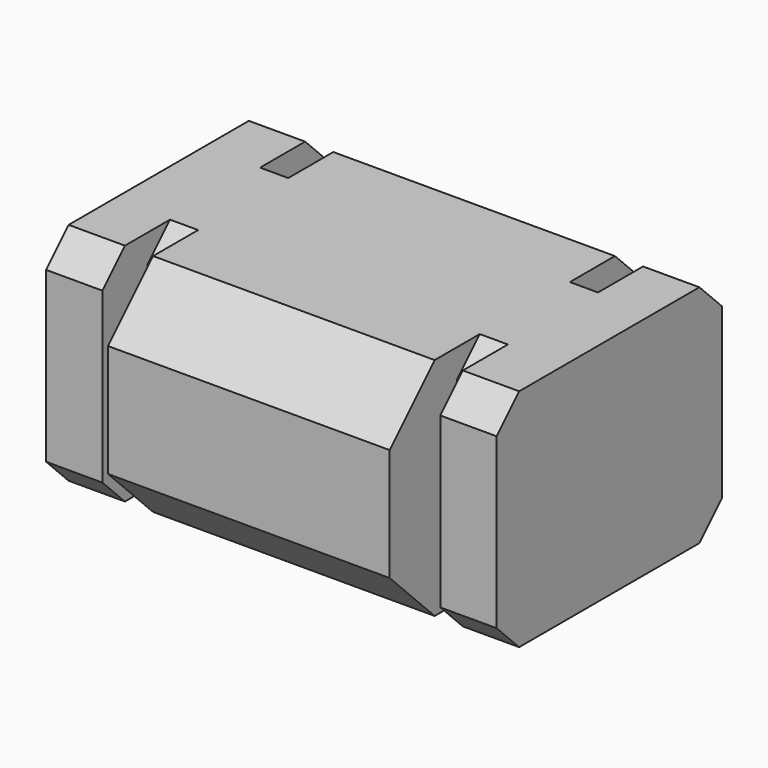
from build123d import *

# Parameters (mm, degrees)
F1_DEPTH = 8
F2_SIZE  = 1
F3_SIZE  = 2


with BuildPart() as f1:
    # F0 (on Top) → F1 (new body)
    with BuildSketch(Plane.XY):
        Polygon((5, 6), (0, 6), (-5, 6), (-5, 3), (-6, 3), (-6, 5), (-8, 5), (-8, -5), (-6, -5), (-6, -3), (-5, -3), (-5, -6), (0, -6), (5, -6), (5, -3), (6, -3), (6, -5), (8, -5), (8, 5), (6, 5), (6, 3), (5, 3), align=None)
    extrude(amount=F1_DEPTH)

    # F2
    f2_edges = [f1.edges().sort_by_distance(p)[0] for p in [
        (-7, -5, 0),
        (-7, 5, 0),
        (7, -5, 0),
        (7, 5, 0),
        (-7, -5, 8),
        (-7, 5, 8),
        (7, -5, 8),
        (7, 5, 8),
        (5.5, -3, 8),
        (5.5, 3, 8),
        (-5.5, -3, 8),
        (-5.5, 3, 8),
        (-5.5, -3, 0),
        (-5.5, 3, 0),
        (5.5, 3, 0),
        (5.5, -3, 0),
    ]]
    chamfer(f2_edges, length=F2_SIZE)

    # F3
    f3_edges = [f1.edges().sort_by_distance(p)[0] for p in [
        (0, -6, 8),
        (0, -6, 0),
        (0, 6, 8),
        (0, 6, 0),
    ]]
    chamfer(f3_edges, length=F3_SIZE)


solid = f1.part
